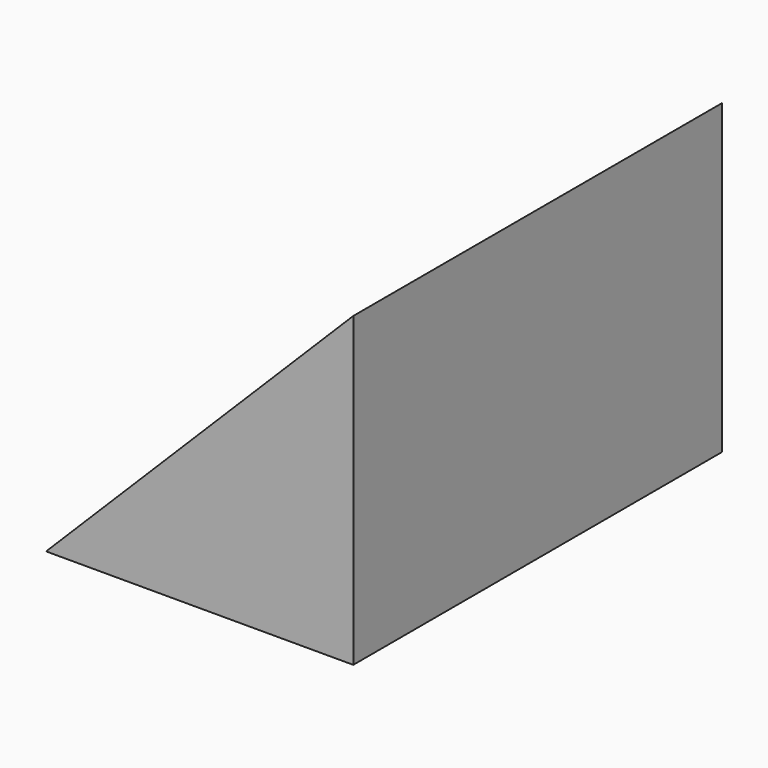
from build123d import *

# Parameters (mm, degrees)
F1_DEPTH = 38.1
F2_W     = 12.7
F2_H     = 25.4
F3_DEPTH = 25.401


with BuildPart() as f1:
    # F0 (on Front) → F1 (new body)
    with BuildSketch(Plane.XZ):
        Polygon((-25.4, 0), (0, 0), (0, 25.4), align=None)
    extrude(amount=F1_DEPTH)

    # F2 (on Top) → F3 (cut, through all)
    with BuildSketch(Plane.XY):
        with Locations((-19.05, -19.05)):
            Rectangle(F2_W, F2_H)
    extrude(amount=F3_DEPTH, mode=Mode.SUBTRACT)


solid = f1.part
